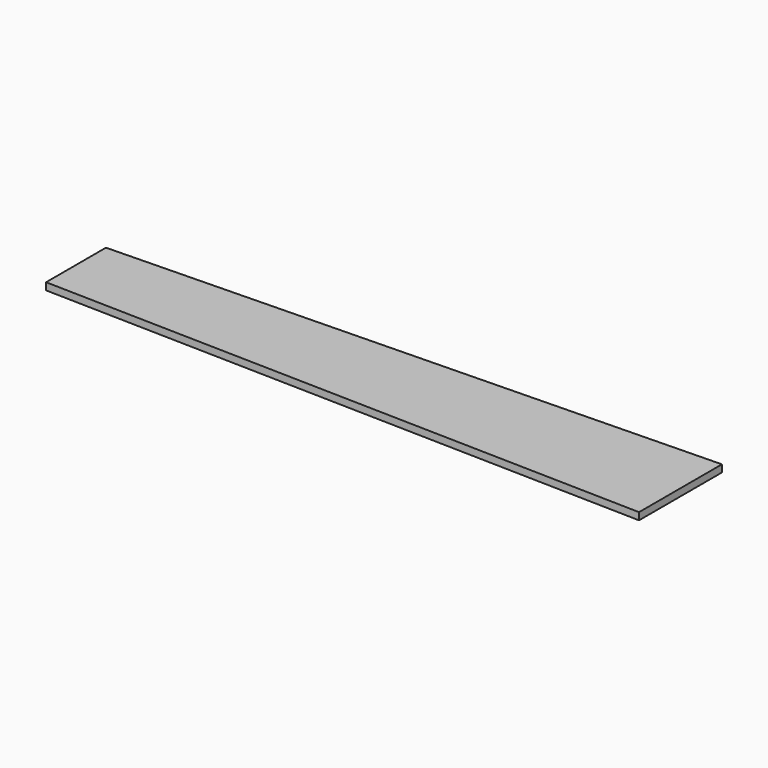
from build123d import *

# Parameters (mm, degrees)
F1_DEPTH = 25


with BuildPart() as f1:
    # F0 (on Top) → F1 (new body)
    with BuildSketch(Plane.XY):
        Polygon((0, -360), (0, 0), (-2100, -50), (-2100, -310), align=None)
    extrude(amount=F1_DEPTH)


with BuildPart() as f3:
    # F2 (on face) → F3 (revolve)
    with BuildSketch(Plane.XY.offset(25)):
        Polygon((0, 0), (0, -360), (32.8437872231, -908.5312581062), (103.8437858224, -1328.6146020889), (234.0103685856, -1328.6146020889), (193.9810067415, 1467.5388336182), (68.257547915, 1411.1691713333), (-87.2723832726, 1199.2609500885), (-128.0860751867, 896.1502313614), (-80.0736993551, 367.2015070915), align=None)
    revolve(axis=Axis((213.9956876636, 69.4621157646, 25), (-0.0143144007, 0.9998975437, 0)))


solid = f1.part
